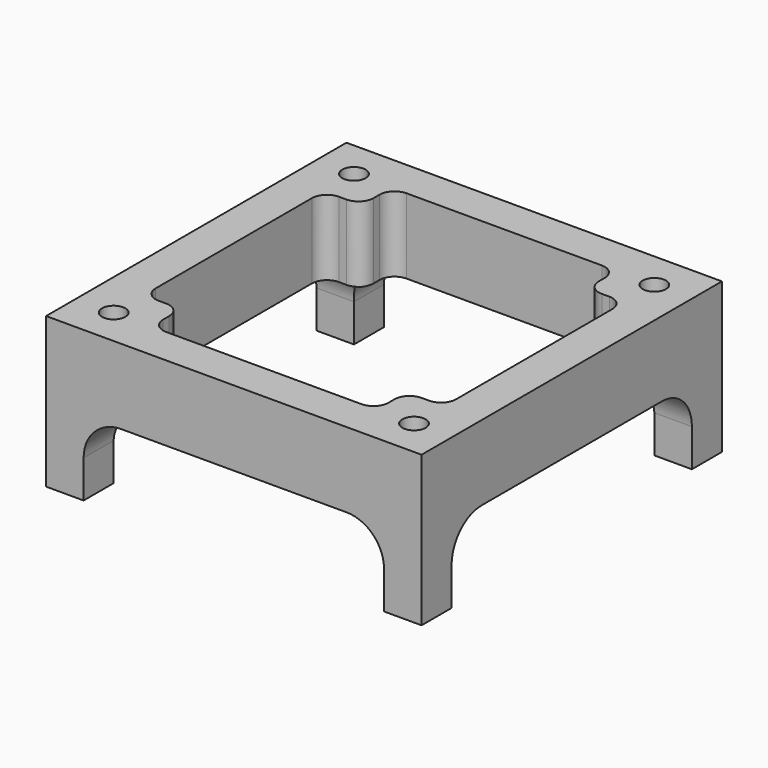
from build123d import *

# Parameters (mm, degrees)
SKETCH128_W     = 50
SKETCH128_H     = 50
PAD022_DEPTH    = 20
POCKET107_DEPTH = 20.001
POCKET108_DEPTH = 50.001
POCKET109_DEPTH = 50.001
SKETCH132_R     = 1.55
POCKET110_DEPTH = 5


with BuildPart() as part:
    # Sketch128 → Pad022 (new body)
    with BuildSketch(Plane.XY):
        Rectangle(SKETCH128_W, SKETCH128_H)
    extrude(amount=PAD022_DEPTH)

    # Sketch129 (on Face6 of Pad022) → Pocket107 (cut, through all)
    with BuildSketch(Plane.XY.offset(20)):
        with BuildLine():
            Line((-18, 15), (-17, 15))
            ThreePointArc((-17, 15), (-15.585786, 15.585786), (-15, 17))
            Line((-15, 17), (-15, 18))
            ThreePointArc((-13, 20), (-14.414214, 19.414214), (-15, 18))
            Line((-13, 20), (13, 20))
            ThreePointArc((15, 18), (14.414214, 19.414214), (13, 20))
            Line((15, 18), (15, 17))
            ThreePointArc((15, 17), (15.585786, 15.585786), (17, 15))
            Line((17, 15), (18, 15))
            ThreePointArc((20, 13), (19.414214, 14.414214), (18, 15))
            Line((20, 13), (20, -13))
            ThreePointArc((18, -15), (19.414214, -14.414214), (20, -13))
            Line((18, -15), (17, -15))
            ThreePointArc((17, -15), (15.585786, -15.585786), (15, -17))
            Line((15, -17), (15, -18))
            ThreePointArc((13, -20), (14.414214, -19.414214), (15, -18))
            Line((13, -20), (-13, -20))
            ThreePointArc((-15, -18), (-14.414214, -19.414214), (-13, -20))
            Line((-15, -18), (-15, -17))
            ThreePointArc((-15, -17), (-15.585786, -15.585786), (-17, -15))
            Line((-17, -15), (-18, -15))
            ThreePointArc((-20, -13), (-19.414214, -14.414214), (-18, -15))
            Line((-20, -13), (-20, 13))
            ThreePointArc((-18, 15), (-19.414214, 14.414214), (-20, 13))
        make_face()
    extrude(amount=-POCKET107_DEPTH, mode=Mode.SUBTRACT)

    # Sketch130 (on Face3 of Pocket107) → Pocket108 (cut, through all)
    with BuildSketch(Plane.YZ.offset(25)):
        with BuildLine():
            Line((-15, 10), (15, 10))
            ThreePointArc((20, 5), (18.535534, 8.535534), (15, 10))
            Line((20, 5), (20, 0))
            Line((20, 0), (-20, 0))
            Line((-20, 0), (-20, 5))
            ThreePointArc((-15, 10), (-18.535534, 8.535534), (-20, 5))
        make_face()
    extrude(amount=-POCKET108_DEPTH, mode=Mode.SUBTRACT)

    # Sketch131 (on Face6 of Pocket107) → Pocket109 (cut, through all)
    with BuildSketch(Plane.XZ.offset(25)):
        with BuildLine():
            Line((-15, 10), (15, 10))
            ThreePointArc((20, 5), (18.535534, 8.535534), (15, 10))
            Line((20, 5), (20, 0))
            Line((20, 0), (-20, 0))
            Line((-20, 0), (-20, 5))
            ThreePointArc((-15, 10), (-18.535534, 8.535534), (-20, 5))
        make_face()
    extrude(amount=-POCKET109_DEPTH, mode=Mode.SUBTRACT)

    # Sketch132 → Pocket110 (cut)
    with BuildSketch(Plane.XY.offset(20)):
        with Locations((-20, 20)):
            Circle(SKETCH132_R)
        with Locations((20, 20)):
            Circle(SKETCH132_R)
        with Locations((20, -20)):
            Circle(SKETCH132_R)
        with Locations((-20, -20)):
            Circle(SKETCH132_R)
    extrude(amount=-POCKET110_DEPTH, mode=Mode.SUBTRACT)


with BuildPart() as part_1:
    # Body023 placement: moved
    add(part.part.moved(Location((85, 85, 0))))


solid = part_1.part
